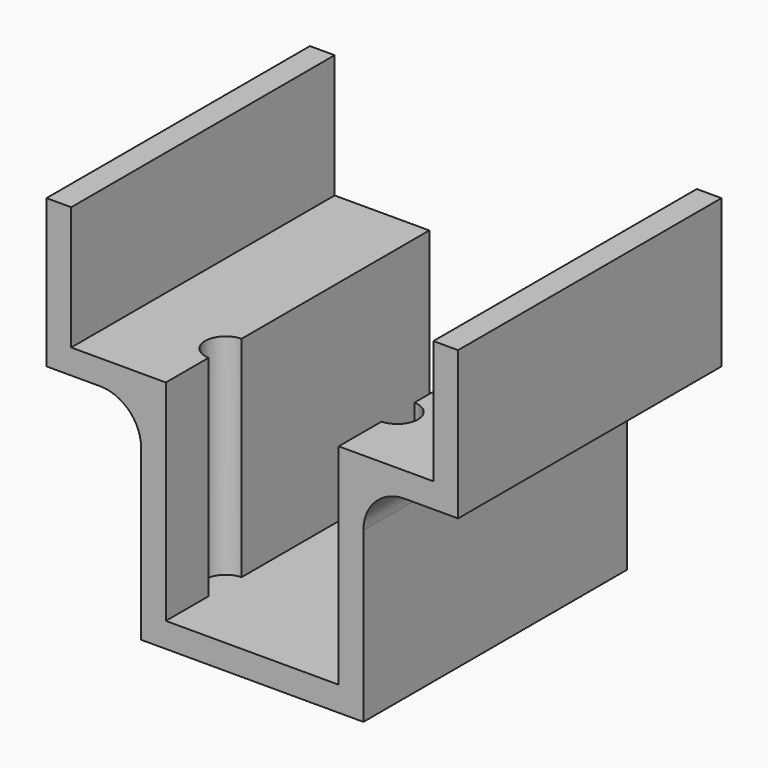
from build123d import *

# Parameters (mm, degrees)
F1_DEPTH = 40
F2_R     = 5
F3_R     = 2.5
F4_DEPTH = 27


with BuildPart() as f1:
    # F0 (on Front) → F1 (new body)
    with BuildSketch(Plane.XZ):
        Polygon((10.5, 0), (0, 0), (-10.5, 0), (-10.5, 25.5), (-22, 25.5), (-22, 40.5), (-25, 40.5), (-25, 22.5), (-13.5, 22.5), (-13.5, -3), (0, -3), (13.5, -3), (13.5, 22.5), (25, 22.5), (25, 40.5), (22, 40.5), (22, 25.5), (10.5, 25.5), align=None)
    extrude(amount=F1_DEPTH)

    # F2
    f2_edges = [f1.edges().sort_by_distance(p)[0] for p in [
        (-13.5, -20, 22.5),
        (13.5, -20, 22.5),
    ]]
    fillet(f2_edges, radius=F2_R)

    # F3 (on Top) → F4 (cut)
    with BuildSketch(Plane.XY):
        with Locations((-10.423073, -31)):
            Circle(F3_R)
        with Locations((10.423073, -31)):
            Circle(F3_R)
    extrude(amount=F4_DEPTH, mode=Mode.SUBTRACT)


solid = f1.part
